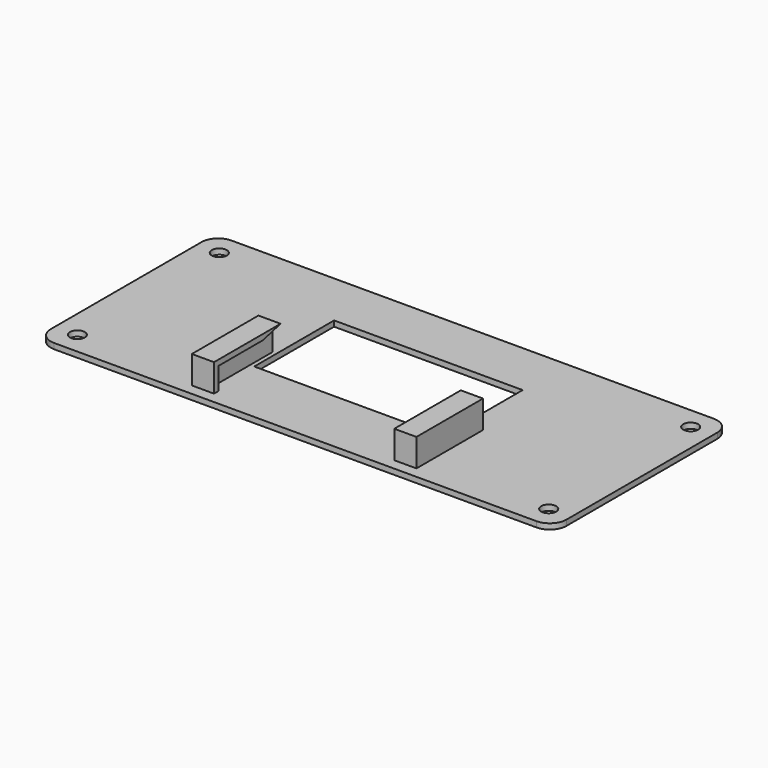
from build123d import *

# Parameters (mm, degrees)
SKETCH_R        = 1.35
PAD_DEPTH       = 1
SKETCH002_W     = 4
SKETCH002_H     = 15
PAD001_DEPTH    = 5
POCKET_DEPTH    = 1.5
SKETCH004_W     = 34
SKETCH004_H     = 18
POCKET001_DEPTH = 5


with BuildPart() as part:
    # Sketch → Pad (new body)
    with BuildSketch(Plane.XY):
        with BuildLine():
            Line((-43.5, 20), (43.5, 20))
            ThreePointArc((46.5, 17), (45.62132, 19.12132), (43.5, 20))
            Line((46.5, 17), (46.5, -17))
            ThreePointArc((43.5, -20), (45.62132, -19.12132), (46.5, -17))
            Line((43.5, -20), (-43.5, -20))
            ThreePointArc((-46.5, -17), (-45.62132, -19.12132), (-43.5, -20))
            Line((-46.5, -17), (-46.5, 17))
            ThreePointArc((-43.5, 20), (-45.62132, 19.12132), (-46.5, 17))
        make_face()
        with Locations((-42.5, 16)):
            Circle(SKETCH_R, mode=Mode.SUBTRACT)
        with Locations((42.5, 16)):
            Circle(SKETCH_R, mode=Mode.SUBTRACT)
        with Locations((-42.5, -16)):
            Circle(SKETCH_R, mode=Mode.SUBTRACT)
        with Locations((42.5, -16)):
            Circle(SKETCH_R, mode=Mode.SUBTRACT)
    extrude(amount=PAD_DEPTH)

    # Sketch002 (on Face14 of Pad) → Pad001 (join)
    with BuildSketch(Plane.XY.offset(1)):
        with Locations((18.25, -10.5)):
            Rectangle(SKETCH002_W, SKETCH002_H)
        with Locations((-18.25, -10.5)):
            Rectangle(SKETCH002_W, SKETCH002_H)
    extrude(amount=PAD001_DEPTH)

    # Sketch003 (on Face21 of Pad001) → Pocket (cut)
    with BuildSketch(Plane(origin=(16.25, 0, 0), x_dir=(0, -1, 0), z_dir=(-1, 0, 0))):
        Polygon((3, 6), (3, 1), (17, 1), (17, 5), (7, 5), align=None)
    pocket = extrude(amount=-POCKET_DEPTH, mode=Mode.SUBTRACT)

    # Mirrored: Pocket across YZ
    add(pocket.mirror(Plane.YZ), mode=Mode.SUBTRACT)

    # Sketch004 (on Face5 of Mirrored) → Pocket001 (cut)
    with BuildSketch(Plane.XY.offset(1)):
        with Locations((0, 1)):
            Rectangle(SKETCH004_W, SKETCH004_H)
    extrude(amount=-POCKET001_DEPTH, mode=Mode.SUBTRACT)


solid = part.part
